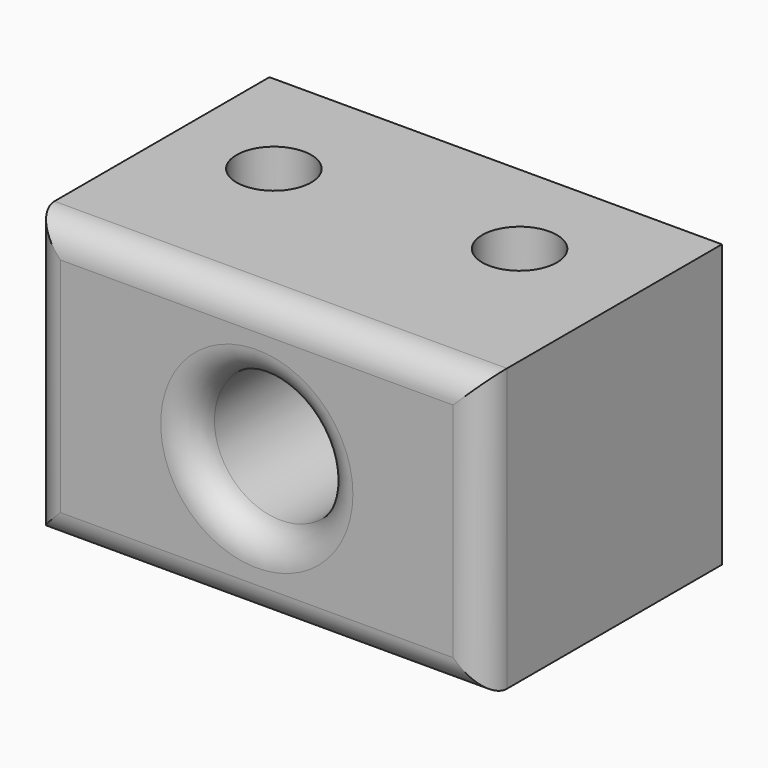
from build123d import *

# Parameters (mm, degrees)
F0_W           = 76.9891291857
F0_H           = 47.9887388647
F0_R           = 11.2733779571
F1_DEPTH       = 50.8
F2_R           = 5.08
F4_D           = 12.7
F4_DEPTH       = 25.4
F4_CBORE_D     = 12.7
F4_CBORE_DEPTH = 6.35
F4_TIP         = 3.8154649308


with BuildPart() as f1:
    # F0 (on Front) → F1 (new body)
    with BuildSketch(Plane.XZ):
        Rectangle(F0_W, F0_H)
        Circle(F0_R, mode=Mode.SUBTRACT)
    extrude(amount=F1_DEPTH)

    # F2
    f2_edges = [f1.edges().sort_by_distance(p)[0] for p in [
        (38.494565, -50.8, 0),
        (-38.494565, -50.8, 0),
        (0, -50.8, 23.994369),
        (0, -50.8, -23.994369),
        (-11.273378, -50.8, 0),
    ]]
    fillet(f2_edges, radius=F2_R)

    # F4
    with Locations(Plane.XY.offset(23.9943694323)):
        with Locations((-21.5776711702, -20.1967004687), (18.2978659868, -17.7800003439)):
            CounterBoreHole(F4_D / 2, F4_CBORE_D / 2, F4_CBORE_DEPTH, depth=F4_DEPTH)
            with Locations((0, 0, -(F4_DEPTH + F4_TIP / 2))):  # 118° drill point
                Cone(0, F4_D / 2, F4_TIP, mode=Mode.SUBTRACT)


solid = f1.part
